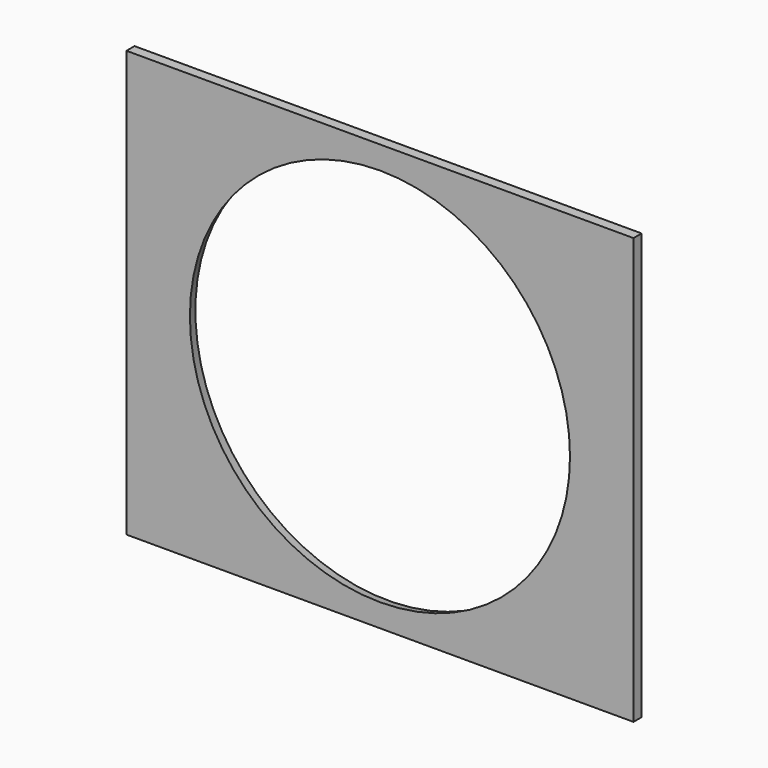
from build123d import *

# Parameters (mm, degrees)
CYLINDER066_R                = 19
CYLINDER066_DEPTH            = 21
CHAMFER011006003017057_SIZE2 = 5
CHAMFER011006003017057_SIZE  = 18.99
BOX085140_W                  = 50
BOX085140_H                  = 1
BOX085140_DEPTH              = 42


with BuildPart() as chamfer011006003017057:
    # Cylinder066 → Cylinder066 (new body)
    with BuildSketch(Plane(origin=(166, 121, 24), x_dir=(1, 0, 0), z_dir=(0, -1, 0))):
        Circle(CYLINDER066_R)
    extrude(amount=CYLINDER066_DEPTH)

    # Chamfer011006003017057
    chamfer011006003017057_edges = [chamfer011006003017057.edges().sort_by_distance(p)[0] for p in [
        (147, 100, 24),
    ]]
    chamfer011006003017057_side = chamfer011006003017057.faces().sort_by_distance((147, 110.5, 24))[0]
    chamfer(chamfer011006003017057_edges, length=CHAMFER011006003017057_SIZE, length2=CHAMFER011006003017057_SIZE2, reference=chamfer011006003017057_side)


with BuildPart() as cut001002016050:
    # Box085140 → Box085140 (new body)
    with BuildSketch(Plane(origin=(141, 118, 3), x_dir=(1, 0, 0), z_dir=(0, 0, 1))):
        with Locations((25, 0.5)):
            Rectangle(BOX085140_W, BOX085140_H)
    extrude(amount=BOX085140_DEPTH)

    # Cut001002016050: cut Chamfer011006003017057
    add(chamfer011006003017057.part, mode=Mode.SUBTRACT)


solid = cut001002016050.part
